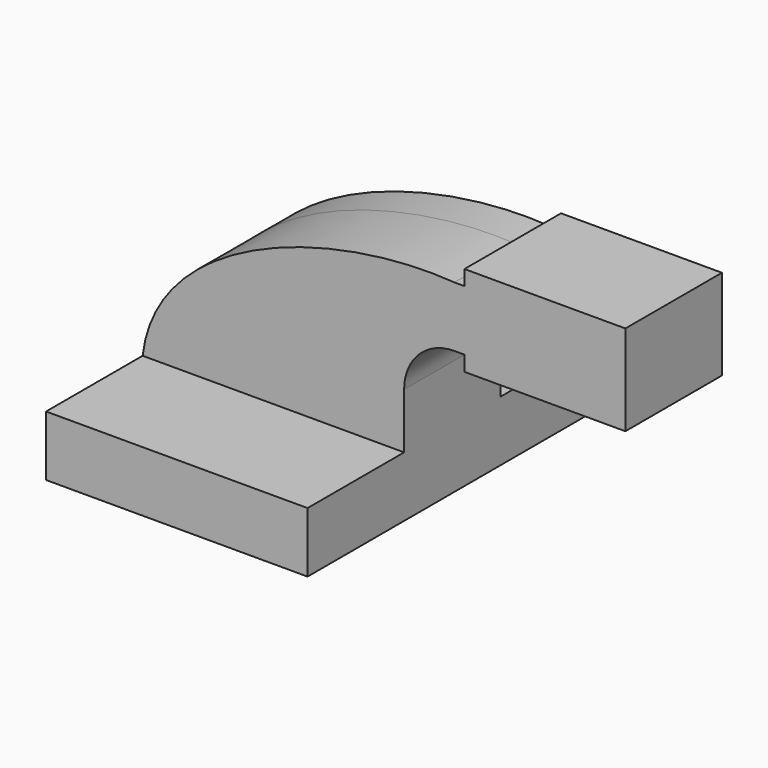
from build123d import *

# Parameters (mm, degrees)
F1_DEPTH = 63.5
F2_DEPTH = 25.4
F3_DEPTH = 12.7


with BuildPart() as f1:
    # F0 (on Front) → F1 (new body, symmetric)
    with BuildSketch(Plane.XZ):
        Polygon((22.225, 9.525), (-41.275, 9.525), (-41.275, -9.525), (41.275, -9.525), (41.275, 9.525), align=None)
    extrude(amount=F1_DEPTH, both=True)

    # F0 (on Front) → F2 (join)
    with BuildSketch(Plane.XZ):
        with BuildLine():
            add(Edge.make_bspline(
                [(-41.275, 9.525), (-36.934671, 47.172504), (18.990146, 64.688085), (57.15, 61.9252)],
                knots=[0, 0, 0, 0, 111.504536, 111.504536, 111.504536, 111.504536], degree=3))
            Line((-41.275, 9.525), (22.225, 9.525))
            Line((22.225, 9.525), (22.225, 27.0002))
            ThreePointArc((22.225, 27.0002), (32.454296, 51.695904), (57.15, 61.9252))
        make_face()
        Polygon((22.225, 9.525), (-41.275, 9.525), (-41.275, -9.525), (41.275, -9.525), (41.275, 9.525), align=None)
        with BuildLine():
            Line((22.225, 27.0002), (22.225, 9.525))
            Line((22.225, 9.525), (41.275, 9.525))
            Line((41.275, 9.525), (41.275, 27.0002))
            ThreePointArc((41.275, 27.0002), (45.92468, 38.22552), (57.15, 42.8752))
            Line((57.15, 42.8752), (60.325, 42.8752))
            Line((60.325, 42.8752), (60.325, 61.9252))
            Line((60.325, 61.9252), (57.15, 61.9252))
            ThreePointArc((57.15, 61.9252), (32.454296, 51.695904), (22.225, 27.0002))
        make_face()
        Polygon((60.325, 66.675), (60.325, 61.9252), (60.325, 42.8752), (60.325, 38.1), (111.125, 38.1), (111.125, 66.675), align=None)
    extrude(amount=F2_DEPTH)

    # F0 (on Front) → F3 (join, symmetric)
    with BuildSketch(Plane.XZ):
        with BuildLine():
            add(Edge.make_bspline(
                [(-41.275, 9.525), (-36.934671, 47.172504), (18.990146, 64.688085), (57.15, 61.9252)],
                knots=[0, 0, 0, 0, 111.504536, 111.504536, 111.504536, 111.504536], degree=3))
            Line((-41.275, 9.525), (22.225, 9.525))
            Line((22.225, 9.525), (22.225, 27.0002))
            ThreePointArc((22.225, 27.0002), (32.454296, 51.695904), (57.15, 61.9252))
        make_face()
        Polygon((22.225, 9.525), (-41.275, 9.525), (-41.275, -9.525), (41.275, -9.525), (41.275, 9.525), align=None)
        with BuildLine():
            Line((22.225, 27.0002), (22.225, 9.525))
            Line((22.225, 9.525), (41.275, 9.525))
            Line((41.275, 9.525), (41.275, 27.0002))
            ThreePointArc((41.275, 27.0002), (45.92468, 38.22552), (57.15, 42.8752))
            Line((57.15, 42.8752), (60.325, 42.8752))
            Line((60.325, 42.8752), (60.325, 61.9252))
            Line((60.325, 61.9252), (57.15, 61.9252))
            ThreePointArc((57.15, 61.9252), (32.454296, 51.695904), (22.225, 27.0002))
        make_face()
        Polygon((60.325, 66.675), (60.325, 61.9252), (60.325, 42.8752), (60.325, 38.1), (111.125, 38.1), (111.125, 66.675), align=None)
    extrude(amount=F3_DEPTH, both=True)


solid = f1.part
